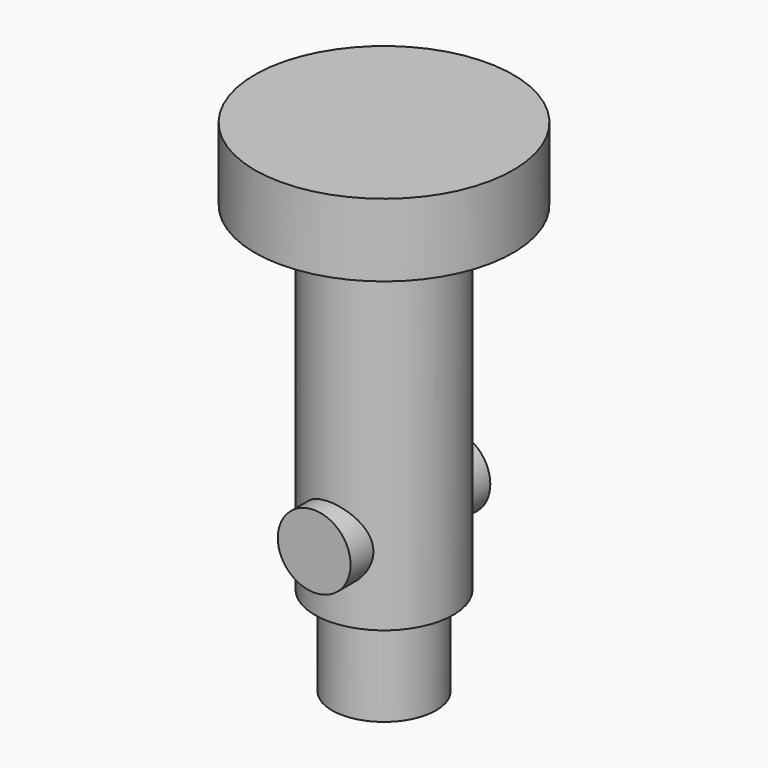
from build123d import *

# Parameters (mm, degrees)
SKETCH102_R  = 5
PAD032_DEPTH = 12
FILLET001_R  = 4


with BuildPart() as part:
    # Sketch101 → Revolution001 (revolve)
    with BuildSketch(Plane.YZ):
        Polygon((-7.15, -9.5), (-9.5, -9.5), (-9.5, 37), (-17.75, 37), (-17.75, 47), (0, 47), (0, -21.8), (-7.15, -21.8), align=None)
    revolve(axis=Axis((0, 0, 0), (0, 0, 1)))

    # Sketch102 → Pad032 (new body, symmetric)
    with BuildSketch(Plane.XZ):
        Circle(SKETCH102_R)
    extrude(amount=PAD032_DEPTH, both=True)

    # Fillet001
    fillet001_edges = [part.edges().sort_by_distance(p)[0] for p in [
        (0, 9.5, 37),
    ]]
    fillet(fillet001_edges, radius=FILLET001_R)


solid = part.part
